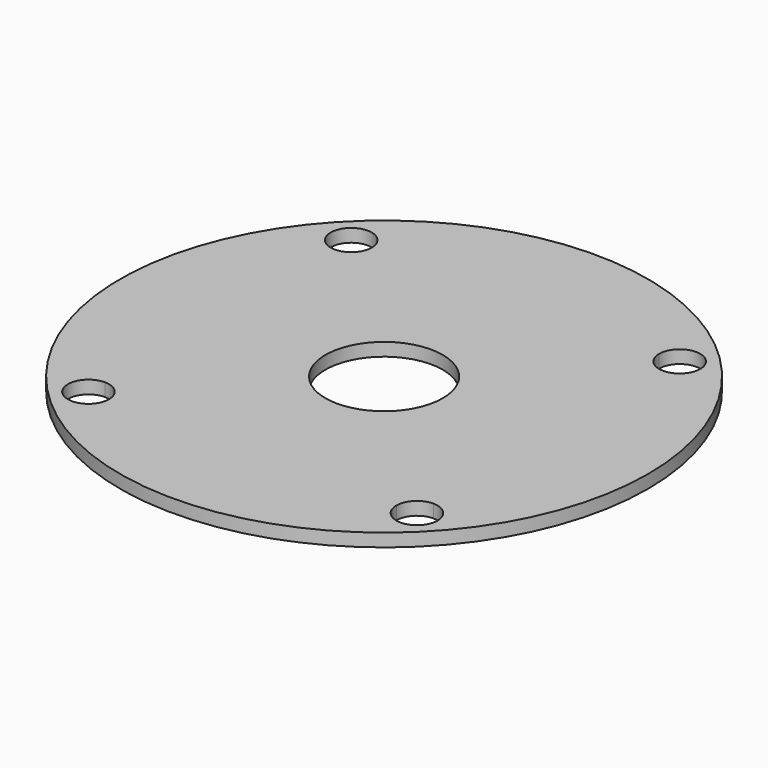
from build123d import *

# Parameters (mm, degrees)
F0_R     = 64.2875
F0_R_2   = 14.2875
F1_DEPTH = 3.175
F3_DEPTH = 25


with BuildPart() as f1:
    # F0 (on Top) → F1 (new body)
    with BuildSketch(Plane.XY):
        Circle(F0_R)
        Circle(F0_R_2, mode=Mode.SUBTRACT)
    extrude(amount=F1_DEPTH)

    # F2 (on face) → F3 (cut)
    with BuildSketch(Plane.XY.offset(3.175)):
        with BuildLine():
            ThreePointArc((-40, 35), (-36.464466, 36.464466), (-35, 40))
            Line((-35, 40), (-40, 40))
            Line((-40, 40), (-40, 35))
        make_face()
        with BuildLine():
            Line((-40, 40), (-35, 40))
            ThreePointArc((-35, 40), (-43.535534, 43.535534), (-40, 35))
            Line((-40, 35), (-40, 40))
        make_face()
        with BuildLine():
            Line((40, 40), (35, 40))
            ThreePointArc((35, 40), (36.464466, 36.464466), (40, 35))
            Line((40, 35), (40, 40))
        make_face()
        with BuildLine():
            ThreePointArc((45, 40), (40, 45), (35, 40))
            Line((35, 40), (40, 40))
            Line((40, 40), (40, 35))
            ThreePointArc((40, 35), (43.535534, 36.464466), (45, 40))
        make_face()
        with BuildLine():
            ThreePointArc((45, -40), (43.535534, -36.464466), (40, -35))
            Line((40, -35), (40, -40))
            Line((40, -40), (35, -40))
            ThreePointArc((35, -40), (40, -45), (45, -40))
        make_face()
        with BuildLine():
            Line((40, -40), (40, -35))
            ThreePointArc((40, -35), (36.464466, -36.464466), (35, -40))
            Line((35, -40), (40, -40))
        make_face()
        with BuildLine():
            Line((-40, -40), (-40, -35))
            ThreePointArc((-40, -35), (-43.535534, -43.535534), (-35, -40))
            Line((-35, -40), (-40, -40))
        make_face()
        with BuildLine():
            ThreePointArc((-35, -40), (-36.464466, -36.464466), (-40, -35))
            Line((-40, -35), (-40, -40))
            Line((-40, -40), (-35, -40))
        make_face()
    extrude(amount=-F3_DEPTH, mode=Mode.SUBTRACT)


solid = f1.part
